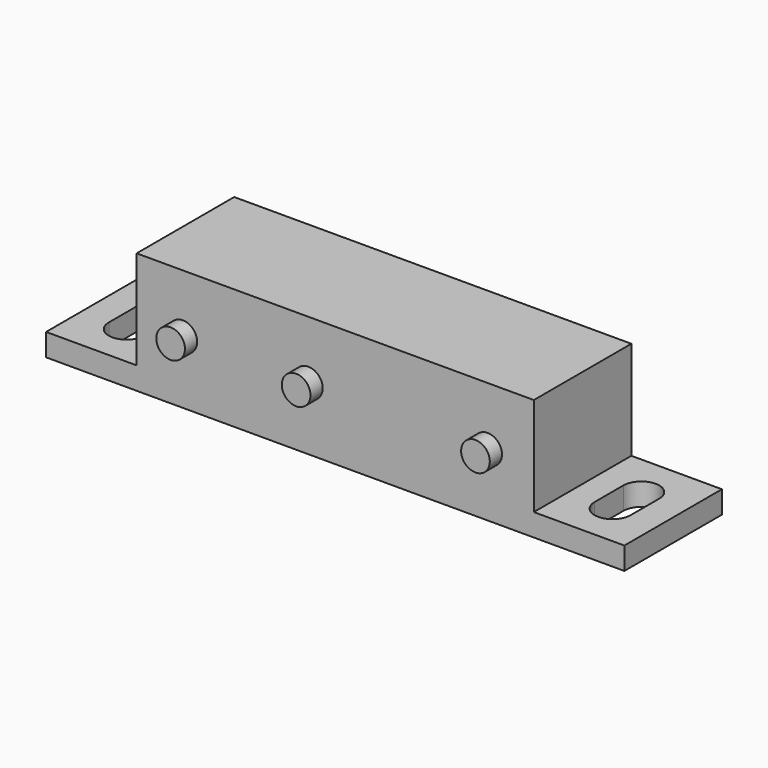
from build123d import *

# Parameters (mm, degrees)
F0_W     = 64.5
F0_H     = 13.5
F1_DEPTH = 13.6
F2_W     = 10.1
F2_H     = 13.6
F3_DEPTH = 11
F4_R     = 1.6
F5_DEPTH = 1.7
F7_DEPTH = 25


with BuildPart() as f1:
    # F0 (on Front) → F1 (new body)
    with BuildSketch(Plane.XZ):
        Rectangle(F0_W, F0_H)
    extrude(amount=F1_DEPTH)

    # F2 (on face) → F3 (cut)
    with BuildSketch(Plane.XY.offset(6.75)):
        with Locations((-27.2, -6.8)):
            Rectangle(F2_W, F2_H)
        with Locations((27.2, -6.8)):
            Rectangle(F2_W, F2_H)
    extrude(amount=-F3_DEPTH, mode=Mode.SUBTRACT)

    # F4 (on face) → F5 (join)
    with BuildSketch(Plane.XZ.offset(13.6)):
        with Locations((17, 0.25)):
            Circle(F4_R)
        with Locations((-3, 0.25)):
            Circle(F4_R)
        with Locations((-17, 0.25)):
            Circle(F4_R)
    extrude(amount=F5_DEPTH)

    # F6 (on face) → F7 (cut)
    with BuildSketch(Plane.XY.offset(-4.25)):
        with BuildLine():
            ThreePointArc((-25.1, -4.8), (-27.1, -2.8), (-29.1, -4.8))
            Line((-29.1, -4.8), (-29.1, -6.8))
            Line((-29.1, -6.8), (-29.1, -8.8))
            ThreePointArc((-29.1, -8.8), (-27.1, -10.8), (-25.1, -8.8))
            Line((-25.1, -8.8), (-25.1, -6.8))
            Line((-25.1, -6.8), (-25.1, -4.8))
        make_face()
        with BuildLine():
            Line((29.1, -8.8), (29.1, -4.8))
            ThreePointArc((29.1, -4.8), (27.1, -2.8), (25.1, -4.8))
            Line((25.1, -4.8), (25.1, -8.8))
            ThreePointArc((25.1, -8.8), (27.1, -10.8), (29.1, -8.8))
        make_face()
    extrude(amount=-F7_DEPTH, mode=Mode.SUBTRACT)


solid = f1.part
